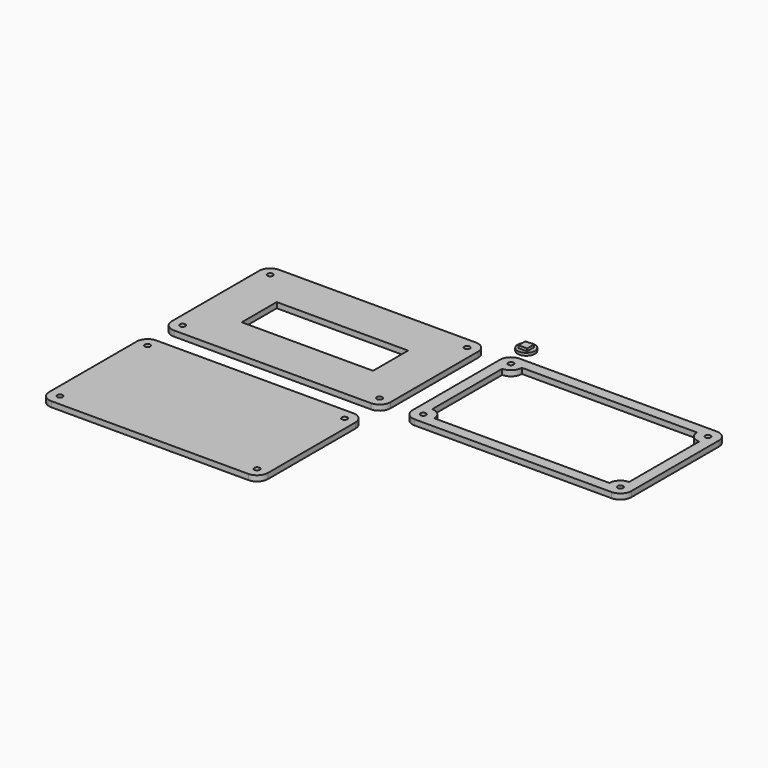
from build123d import *

# Parameters (mm, degrees)
F0_R     = 5
F0_W     = 5
F0_H     = 5
F1_DEPTH = 1.5
F2_DEPTH = 3
F0_W_2   = 76.2
F0_H_2   = 25.4
F3_DEPTH = 3.175
F5_DEPTH = 3.175
F7_DEPTH = 3.175


with BuildPart() as f1:
    # F0 (on Top) → F1 (new body)
    with BuildSketch(Plane.XY):
        Circle(F0_R)
        Rectangle(F0_W, F0_H, mode=Mode.SUBTRACT)
        Rectangle(F0_W, F0_H)
    extrude(amount=F1_DEPTH)

    # F0 (on Top) → F2 (join)
    with BuildSketch(Plane.XY):
        Rectangle(F0_W, F0_H)
    extrude(amount=F2_DEPTH)


with BuildPart() as f3:
    # F0 (on Top) → F3 (new body)
    with BuildSketch(Plane.XY):
        with BuildLine():
            Line((120.65, -12.7), (6.35, -12.7))
            ThreePointArc((6.35, -12.7), (1.8598719395, -14.5598719395), (0, -19.05))
            Line((0, -19.05), (0, -82.55))
            ThreePointArc((0, -82.55), (1.8598719395, -87.0401280605), (6.35, -88.9))
            Line((6.35, -88.9), (120.65, -88.9))
            ThreePointArc((120.65, -88.9), (125.1401280605, -87.0401280605), (127, -82.55))
            Line((127, -82.55), (127, -19.05))
            ThreePointArc((127, -19.05), (125.1401280605, -14.5598719395), (120.65, -12.7))
        make_face()
        with BuildLine():
            ThreePointArc((6.35, -20.6375), (5.2274679849, -17.9274679849), (7.9375, -19.05))
            Line((7.9375, -19.05), (12.7, -19.05))
            Line((12.7, -19.05), (114.3, -19.05))
            Line((114.3, -19.05), (119.0625, -19.05))
            ThreePointArc((119.0625, -19.05), (120.65, -17.4625), (122.2375, -19.05))
            ThreePointArc((122.2375, -19.05), (121.7725320151, -20.1725320151), (120.65, -20.6375))
            Line((120.65, -20.6375), (120.65, -25.4))
            Line((120.65, -25.4), (120.65, -76.2))
            Line((120.65, -76.2), (120.65, -80.9625))
            ThreePointArc((120.65, -80.9625), (121.7725320151, -81.4274679849), (122.2375, -82.55))
            ThreePointArc((122.2375, -82.55), (120.65, -84.1375), (119.0625, -82.55))
            Line((119.0625, -82.55), (114.3, -82.55))
            Line((114.3, -82.55), (12.7, -82.55))
            Line((12.7, -82.55), (7.9375, -82.55))
            ThreePointArc((7.9375, -82.55), (5.2274679849, -83.6725320151), (6.35, -80.9625))
            Line((6.35, -80.9625), (6.35, -76.2))
            Line((6.35, -76.2), (6.35, -25.4))
            Line((6.35, -25.4), (6.35, -20.6375))
        make_face(mode=Mode.SUBTRACT)
        with BuildLine():
            Line((12.7, -19.05), (7.9375, -19.05))
            ThreePointArc((7.9375, -19.05), (7.4725320151, -20.1725320151), (6.35, -20.6375))
            Line((6.35, -20.6375), (6.35, -25.4))
            ThreePointArc((6.35, -25.4), (10.8401280605, -23.5401280605), (12.7, -19.05))
        make_face()
        with BuildLine():
            ThreePointArc((12.7, -82.55), (10.8401280605, -78.0598719395), (6.35, -76.2))
            Line((6.35, -76.2), (6.35, -80.9625))
            ThreePointArc((6.35, -80.9625), (7.4725320151, -81.4274679849), (7.9375, -82.55))
            Line((7.9375, -82.55), (12.7, -82.55))
        make_face()
        with BuildLine():
            Line((120.65, -80.9625), (120.65, -76.2))
            ThreePointArc((120.65, -76.2), (116.1598719395, -78.0598719395), (114.3, -82.55))
            Line((114.3, -82.55), (119.0625, -82.55))
            ThreePointArc((119.0625, -82.55), (119.5274679849, -81.4274679849), (120.65, -80.9625))
        make_face()
        with BuildLine():
            Line((119.0625, -19.05), (114.3, -19.05))
            ThreePointArc((114.3, -19.05), (116.1598719395, -23.5401280605), (120.65, -25.4))
            Line((120.65, -25.4), (120.65, -20.6375))
            ThreePointArc((120.65, -20.6375), (119.5274679849, -20.1725320151), (119.0625, -19.05))
        make_face()
        with BuildLine():
            Line((114.3, -19.05), (12.7, -19.05))
            ThreePointArc((12.7, -19.05), (10.8401280605, -23.5401280605), (6.35, -25.4))
            Line((6.35, -25.4), (6.35, -76.2))
            ThreePointArc((6.35, -76.2), (10.8401280605, -78.0598719395), (12.7, -82.55))
            Line((12.7, -82.55), (114.3, -82.55))
            ThreePointArc((114.3, -82.55), (116.1598719395, -78.0598719395), (120.65, -76.2))
            Line((120.65, -76.2), (120.65, -25.4))
            ThreePointArc((120.65, -25.4), (116.1598719395, -23.5401280605), (114.3, -19.05))
        make_face()
        with Locations((63.5, -50.8)):
            Rectangle(F0_W_2, F0_H_2, mode=Mode.SUBTRACT)
    extrude(amount=F3_DEPTH)


with BuildPart() as f3_1:
    # F4: moved
    add(f3.part.moved(Location((-139.7, 0, 0))))


with BuildPart() as f5:
    # F0 (on Top) → F5 (new body)
    with BuildSketch(Plane.XY):
        with BuildLine():
            Line((120.65, -12.7), (6.35, -12.7))
            ThreePointArc((6.35, -12.7), (1.8598719395, -14.5598719395), (0, -19.05))
            Line((0, -19.05), (0, -82.55))
            ThreePointArc((0, -82.55), (1.8598719395, -87.0401280605), (6.35, -88.9))
            Line((6.35, -88.9), (120.65, -88.9))
            ThreePointArc((120.65, -88.9), (125.1401280605, -87.0401280605), (127, -82.55))
            Line((127, -82.55), (127, -19.05))
            ThreePointArc((127, -19.05), (125.1401280605, -14.5598719395), (120.65, -12.7))
        make_face()
        with BuildLine():
            ThreePointArc((6.35, -20.6375), (5.2274679849, -17.9274679849), (7.9375, -19.05))
            Line((7.9375, -19.05), (12.7, -19.05))
            Line((12.7, -19.05), (114.3, -19.05))
            Line((114.3, -19.05), (119.0625, -19.05))
            ThreePointArc((119.0625, -19.05), (120.65, -17.4625), (122.2375, -19.05))
            ThreePointArc((122.2375, -19.05), (121.7725320151, -20.1725320151), (120.65, -20.6375))
            Line((120.65, -20.6375), (120.65, -25.4))
            Line((120.65, -25.4), (120.65, -76.2))
            Line((120.65, -76.2), (120.65, -80.9625))
            ThreePointArc((120.65, -80.9625), (121.7725320151, -81.4274679849), (122.2375, -82.55))
            ThreePointArc((122.2375, -82.55), (120.65, -84.1375), (119.0625, -82.55))
            Line((119.0625, -82.55), (114.3, -82.55))
            Line((114.3, -82.55), (12.7, -82.55))
            Line((12.7, -82.55), (7.9375, -82.55))
            ThreePointArc((7.9375, -82.55), (5.2274679849, -83.6725320151), (6.35, -80.9625))
            Line((6.35, -80.9625), (6.35, -76.2))
            Line((6.35, -76.2), (6.35, -25.4))
            Line((6.35, -25.4), (6.35, -20.6375))
        make_face(mode=Mode.SUBTRACT)
        with BuildLine():
            Line((114.3, -19.05), (12.7, -19.05))
            ThreePointArc((12.7, -19.05), (10.8401280605, -23.5401280605), (6.35, -25.4))
            Line((6.35, -25.4), (6.35, -76.2))
            ThreePointArc((6.35, -76.2), (10.8401280605, -78.0598719395), (12.7, -82.55))
            Line((12.7, -82.55), (114.3, -82.55))
            ThreePointArc((114.3, -82.55), (116.1598719395, -78.0598719395), (120.65, -76.2))
            Line((120.65, -76.2), (120.65, -25.4))
            ThreePointArc((120.65, -25.4), (116.1598719395, -23.5401280605), (114.3, -19.05))
        make_face()
        with Locations((63.5, -50.8)):
            Rectangle(F0_W_2, F0_H_2, mode=Mode.SUBTRACT)
        with Locations((63.5, -50.8)):
            Rectangle(F0_W_2, F0_H_2)
        with BuildLine():
            Line((119.0625, -19.05), (114.3, -19.05))
            ThreePointArc((114.3, -19.05), (116.1598719395, -23.5401280605), (120.65, -25.4))
            Line((120.65, -25.4), (120.65, -20.6375))
            ThreePointArc((120.65, -20.6375), (119.5274679849, -20.1725320151), (119.0625, -19.05))
        make_face()
        with BuildLine():
            Line((12.7, -19.05), (7.9375, -19.05))
            ThreePointArc((7.9375, -19.05), (7.4725320151, -20.1725320151), (6.35, -20.6375))
            Line((6.35, -20.6375), (6.35, -25.4))
            ThreePointArc((6.35, -25.4), (10.8401280605, -23.5401280605), (12.7, -19.05))
        make_face()
        with BuildLine():
            ThreePointArc((12.7, -82.55), (10.8401280605, -78.0598719395), (6.35, -76.2))
            Line((6.35, -76.2), (6.35, -80.9625))
            ThreePointArc((6.35, -80.9625), (7.4725320151, -81.4274679849), (7.9375, -82.55))
            Line((7.9375, -82.55), (12.7, -82.55))
        make_face()
        with BuildLine():
            Line((120.65, -80.9625), (120.65, -76.2))
            ThreePointArc((120.65, -76.2), (116.1598719395, -78.0598719395), (114.3, -82.55))
            Line((114.3, -82.55), (119.0625, -82.55))
            ThreePointArc((119.0625, -82.55), (119.5274679849, -81.4274679849), (120.65, -80.9625))
        make_face()
    extrude(amount=F5_DEPTH)


with BuildPart() as f5_1:
    # F6: moved
    add(f5.part.moved(Location((-139.7, -88.9, 0))))


with BuildPart() as f7:
    # F0 (on Top) → F7 (new body)
    with BuildSketch(Plane.XY):
        with BuildLine():
            Line((120.65, -12.7), (6.35, -12.7))
            ThreePointArc((6.35, -12.7), (1.8598719395, -14.5598719395), (0, -19.05))
            Line((0, -19.05), (0, -82.55))
            ThreePointArc((0, -82.55), (1.8598719395, -87.0401280605), (6.35, -88.9))
            Line((6.35, -88.9), (120.65, -88.9))
            ThreePointArc((120.65, -88.9), (125.1401280605, -87.0401280605), (127, -82.55))
            Line((127, -82.55), (127, -19.05))
            ThreePointArc((127, -19.05), (125.1401280605, -14.5598719395), (120.65, -12.7))
        make_face()
        with BuildLine():
            ThreePointArc((6.35, -20.6375), (5.2274679849, -17.9274679849), (7.9375, -19.05))
            Line((7.9375, -19.05), (12.7, -19.05))
            Line((12.7, -19.05), (114.3, -19.05))
            Line((114.3, -19.05), (119.0625, -19.05))
            ThreePointArc((119.0625, -19.05), (120.65, -17.4625), (122.2375, -19.05))
            ThreePointArc((122.2375, -19.05), (121.7725320151, -20.1725320151), (120.65, -20.6375))
            Line((120.65, -20.6375), (120.65, -25.4))
            Line((120.65, -25.4), (120.65, -76.2))
            Line((120.65, -76.2), (120.65, -80.9625))
            ThreePointArc((120.65, -80.9625), (121.7725320151, -81.4274679849), (122.2375, -82.55))
            ThreePointArc((122.2375, -82.55), (120.65, -84.1375), (119.0625, -82.55))
            Line((119.0625, -82.55), (114.3, -82.55))
            Line((114.3, -82.55), (12.7, -82.55))
            Line((12.7, -82.55), (7.9375, -82.55))
            ThreePointArc((7.9375, -82.55), (5.2274679849, -83.6725320151), (6.35, -80.9625))
            Line((6.35, -80.9625), (6.35, -76.2))
            Line((6.35, -76.2), (6.35, -25.4))
            Line((6.35, -25.4), (6.35, -20.6375))
        make_face(mode=Mode.SUBTRACT)
        with BuildLine():
            Line((12.7, -19.05), (7.9375, -19.05))
            ThreePointArc((7.9375, -19.05), (7.4725320151, -20.1725320151), (6.35, -20.6375))
            Line((6.35, -20.6375), (6.35, -25.4))
            ThreePointArc((6.35, -25.4), (10.8401280605, -23.5401280605), (12.7, -19.05))
        make_face()
        with BuildLine():
            Line((119.0625, -19.05), (114.3, -19.05))
            ThreePointArc((114.3, -19.05), (116.1598719395, -23.5401280605), (120.65, -25.4))
            Line((120.65, -25.4), (120.65, -20.6375))
            ThreePointArc((120.65, -20.6375), (119.5274679849, -20.1725320151), (119.0625, -19.05))
        make_face()
        with BuildLine():
            ThreePointArc((12.7, -82.55), (10.8401280605, -78.0598719395), (6.35, -76.2))
            Line((6.35, -76.2), (6.35, -80.9625))
            ThreePointArc((6.35, -80.9625), (7.4725320151, -81.4274679849), (7.9375, -82.55))
            Line((7.9375, -82.55), (12.7, -82.55))
        make_face()
        with BuildLine():
            Line((120.65, -80.9625), (120.65, -76.2))
            ThreePointArc((120.65, -76.2), (116.1598719395, -78.0598719395), (114.3, -82.55))
            Line((114.3, -82.55), (119.0625, -82.55))
            ThreePointArc((119.0625, -82.55), (119.5274679849, -81.4274679849), (120.65, -80.9625))
        make_face()
    extrude(amount=F7_DEPTH)


solid = Compound([f1.part, f3_1.part, f5_1.part, f7.part])
